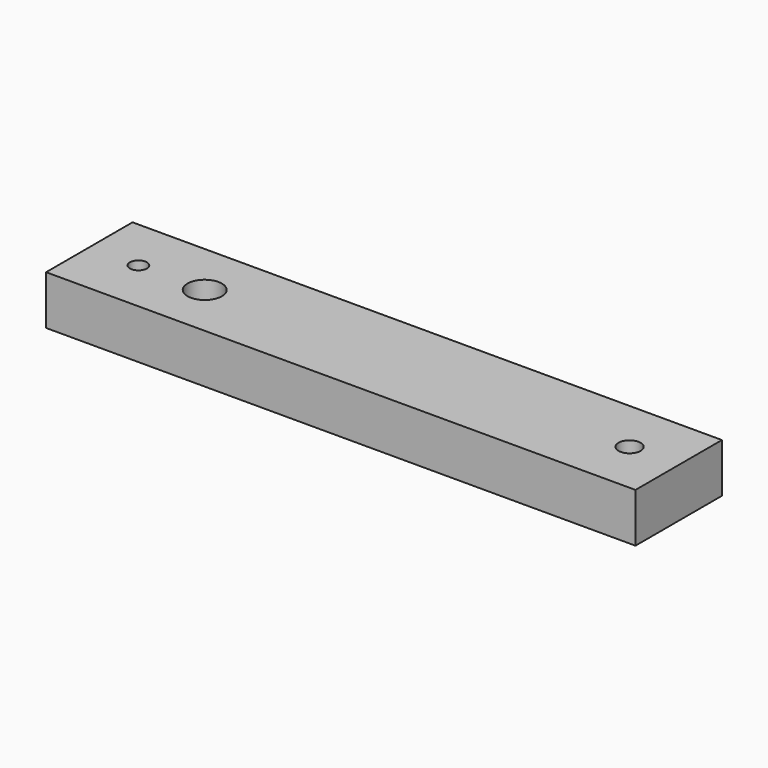
from build123d import *

# Parameters (mm, degrees)
F0_W     = 120
F0_H     = 22
F1_DEPTH = 10
F3_D     = 3.4544
F5_D     = 4.4958
F6_W     = 2.5
F6_H     = 7


with BuildPart() as f1:
    # F0 (on Top) → F1 (new body)
    with BuildSketch(Plane.XY):
        Rectangle(F0_W, F0_H)
    extrude(amount=F1_DEPTH)

    # F3 (through all)
    with Locations(Plane.XY.offset(10)):
        with Locations((-50, 0)):
            Hole(F3_D / 2)

    # F5 (through all)
    with Locations(Plane.XY.offset(10)):
        with Locations((-36.5, 0), (50, 0)):
            Hole(F5_D / 2)

    # F6 (on Front) → F7 (revolve, cut)
    with BuildSketch(Plane.XZ):
        with Locations((-34.25, 6.5)):
            Rectangle(F6_W, F6_H)
    revolve(axis=Axis((-36.5, 0, 5), (0, 0, -1)), mode=Mode.SUBTRACT)


solid = f1.part
